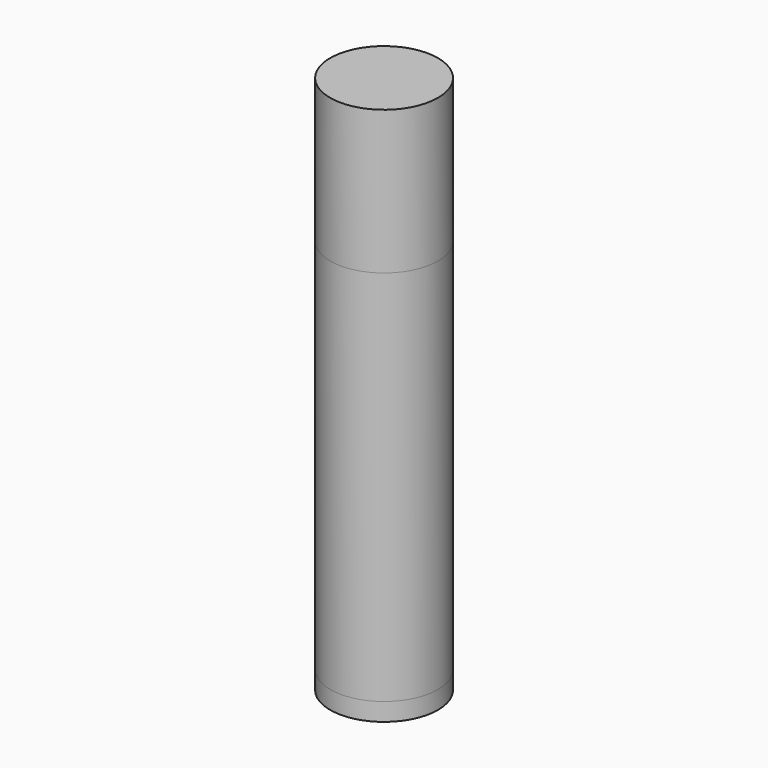
from build123d import *

# Parameters (mm, degrees)
F0_R     = 6
F1_DEPTH = 2
F2_R     = 6
F3_DEPTH = 42
F4_R     = 6
F5_DEPTH = 16


with BuildPart() as f1:
    # F0 (on Top) → F1 (new body)
    with BuildSketch(Plane.XY):
        Circle(F0_R)
    extrude(amount=F1_DEPTH)


with BuildPart() as f3:
    # F2 (on face) → F3 (new body)
    with BuildSketch(Plane.XY.offset(2)):
        Circle(F2_R)
    extrude(amount=F3_DEPTH)


with BuildPart() as f5:
    # F4 (on face) → F5 (new body)
    with BuildSketch(Plane.XY.offset(44)):
        Circle(F4_R)
    extrude(amount=F5_DEPTH)


solid = Compound([f1.part, f3.part, f5.part])
